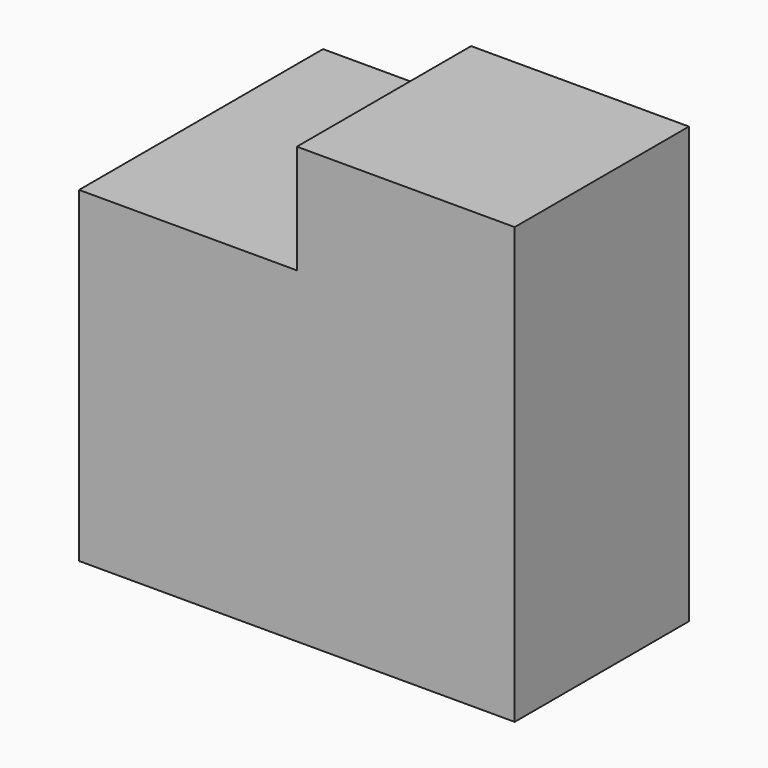
from build123d import *

# Parameters (mm, degrees)
BOX_W        = 16
BOX_H        = 14
BOX_DEPTH    = 15
BOX001_W     = 10
BOX001_H     = 10
BOX001_DEPTH = 20


with BuildPart() as cub:
    # Box → Box (new body)
    with BuildSketch(Plane.XY):
        with Locations((8, 7)):
            Rectangle(BOX_W, BOX_H)
    extrude(amount=BOX_DEPTH)


with BuildPart() as fusion:
    # Box001 → Box001 (new body)
    with BuildSketch(Plane(origin=(10, 0, 0), x_dir=(1, 0, 0), z_dir=(0, 0, 1))):
        with Locations((5, 5)):
            Rectangle(BOX001_W, BOX001_H)
    extrude(amount=BOX001_DEPTH)

    # Fusion: union Cub
    add(cub.part)


solid = fusion.part
